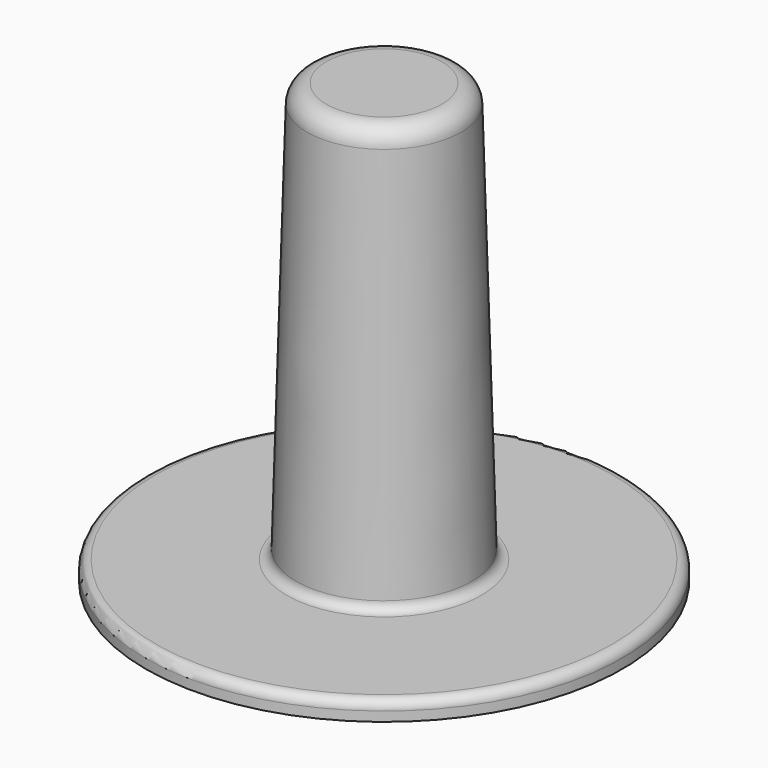
from build123d import *

# Parameters (mm, degrees)
F2_R = 2
F3_R = 1
F4_R = 1


with BuildPart() as f1:
    # F0 (on Front) → F1 (revolve)
    with BuildSketch(Plane.XZ):
        Polygon((-25, 0), (0, 0), (0, 46), (-8, 46), (-9.25, 2), (-25, 2), align=None)
    revolve(axis=Axis((0, 0, 23), (0, 0, -1)))

    # F2
    f2_edges = [f1.edges().sort_by_distance(p)[0] for p in [
        (8, 0, 46),
    ]]
    fillet(f2_edges, radius=F2_R)

    # F3
    f3_edges = [f1.edges().sort_by_distance(p)[0] for p in [
        (25, 0, 2),
    ]]
    fillet(f3_edges, radius=F3_R)

    # F4
    f4_edges = [f1.edges().sort_by_distance(p)[0] for p in [
        (9.25, 0, 2),
    ]]
    fillet(f4_edges, radius=F4_R)


solid = f1.part
